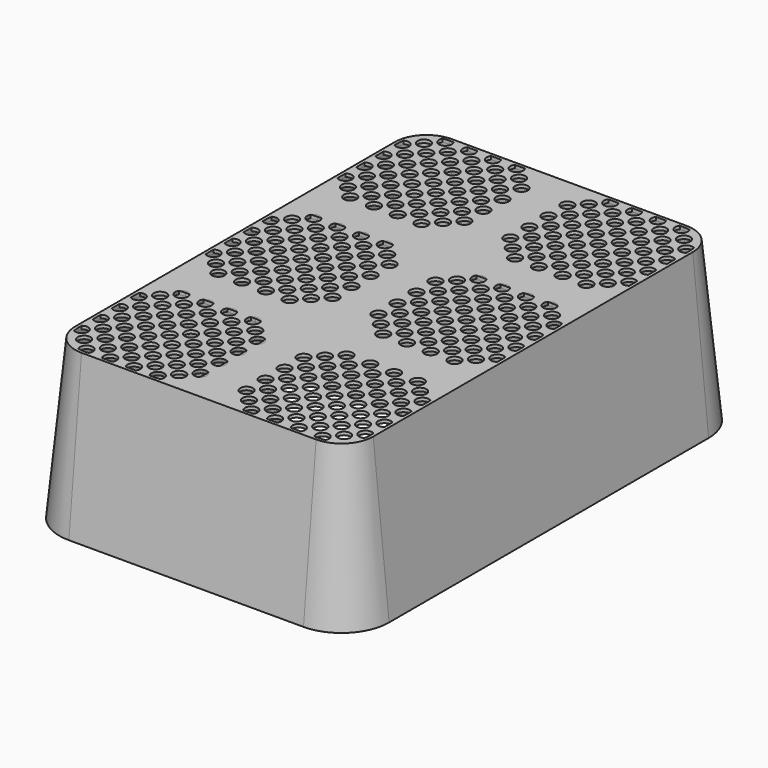
from build123d import *

# Parameters (mm, degrees)
EXTRUDE006_DEPTH = 1
FACE018_R        = 2
EXTRUDE003_DEPTH = 1
FACE017_R        = 2
EXTRUDE002_DEPTH = 1
FACE016_R        = 2
EXTRUDE001_DEPTH = 1
FACE015_R        = 2
EXTRUDE_DEPTH    = 1
FACE020_R        = 2
EXTRUDE005_DEPTH = 1
FACE019_R        = 2
EXTRUDE004_DEPTH = 1
EXTRUDE007_DEPTH = 1
EXTRUDE008_DEPTH = 1


with BuildPart() as extrude006:
    # Sketch021 (on Face4 of Cut) → Extrude006 (new body)
    with BuildSketch(Plane.XY.offset(50)):
        with BuildLine():
            Line((15, 46), (37, 46))
            ThreePointArc((46, 37), (43.363961, 43.363961), (37, 46))
            Line((46, 37), (46, 15))
            ThreePointArc((37, 6), (43.363961, 8.636039), (46, 15))
            Line((37, 6), (15, 6))
            ThreePointArc((6, 15), (8.636039, 8.636039), (15, 6))
            Line((6, 15), (6, 37))
            ThreePointArc((15, 46), (8.636039, 43.363961), (6, 37))
        make_face()
    extrude(amount=EXTRUDE006_DEPTH)


with BuildPart() as extrude006_1:
    # Extrude006 placement: moved
    add(extrude006.part.moved(Location((0, 0, -1))))


with BuildPart() as extrude003:
    # Face018 → Extrude003 (new body)
    with BuildSketch(Plane(origin=(29.75, 14.75, 0), x_dir=(0, 1, 0), z_dir=(0, 0, 1))):
        Circle(FACE018_R)
        with Locations((0, 7.5)):
            Circle(FACE018_R)
        with Locations((0, 15)):
            Circle(FACE018_R)
        with Locations((0, 22.5)):
            Circle(FACE018_R)
        with Locations((26.25, -11.25)):
            Circle(FACE018_R)
        with Locations((18.75, -11.25)):
            Circle(FACE018_R)
        with Locations((11.25, -11.25)):
            Circle(FACE018_R)
        with Locations((3.75, -11.25)):
            Circle(FACE018_R)
        with Locations((-3.75, -11.25)):
            Circle(FACE018_R)
        with Locations((15, -7.5)):
            Circle(FACE018_R)
        with Locations((22.5, -7.5)):
            Circle(FACE018_R)
        with Locations((26.25, -3.75)):
            Circle(FACE018_R)
        with Locations((18.75, -3.75)):
            Circle(FACE018_R)
        with Locations((11.25, -3.75)):
            Circle(FACE018_R)
        with Locations((7.5, -7.5)):
            Circle(FACE018_R)
        with Locations((3.75, -3.75)):
            Circle(FACE018_R)
        with Locations((0, -7.5)):
            Circle(FACE018_R)
        with Locations((-3.75, -3.75)):
            Circle(FACE018_R)
        with Locations((-3.75, 3.75)):
            Circle(FACE018_R)
        with Locations((7.5, 0)):
            Circle(FACE018_R)
        with Locations((15, 0)):
            Circle(FACE018_R)
        with Locations((22.5, 0)):
            Circle(FACE018_R)
        with Locations((18.75, 3.75)):
            Circle(FACE018_R)
        with Locations((11.25, 3.75)):
            Circle(FACE018_R)
        with Locations((3.75, 3.75)):
            Circle(FACE018_R)
        with Locations((15, 7.5)):
            Circle(FACE018_R)
        with Locations((7.5, 7.5)):
            Circle(FACE018_R)
        with Locations((11.25, 11.25)):
            Circle(FACE018_R)
        with Locations((3.75, 11.25)):
            Circle(FACE018_R)
        with Locations((-3.75, 11.25)):
            Circle(FACE018_R)
        with Locations((7.5, 15)):
            Circle(FACE018_R)
        with Locations((15, 15)):
            Circle(FACE018_R)
        with Locations((18.75, 11.25)):
            Circle(FACE018_R)
        with Locations((22.5, 7.5)):
            Circle(FACE018_R)
        with Locations((26.25, 3.75)):
            Circle(FACE018_R)
        with Locations((22.5, 15)):
            Circle(FACE018_R)
        with Locations((26.25, 11.25)):
            Circle(FACE018_R)
        with Locations((26.25, 18.75)):
            Circle(FACE018_R)
        with Locations((18.75, 18.75)):
            Circle(FACE018_R)
        with Locations((11.25, 18.75)):
            Circle(FACE018_R)
        with Locations((3.75, 18.75)):
            Circle(FACE018_R)
        with Locations((15, 22.5)):
            Circle(FACE018_R)
        with Locations((22.5, 22.5)):
            Circle(FACE018_R)
        with Locations((30, 15)):
            Circle(FACE018_R)
        with Locations((30, 7.5)):
            Circle(FACE018_R)
        with Locations((30, 0)):
            Circle(FACE018_R)
        with Locations((30, -7.5)):
            Circle(FACE018_R)
        with Locations((22.5, -15)):
            Circle(FACE018_R)
        with Locations((15, -15)):
            Circle(FACE018_R)
        with Locations((7.5, -15)):
            Circle(FACE018_R)
        with Locations((0, -15)):
            Circle(FACE018_R)
        with Locations((-7.5, -7.5)):
            Circle(FACE018_R)
        with Locations((-7.5, 0)):
            Circle(FACE018_R)
        with Locations((-7.5, 7.5)):
            Circle(FACE018_R)
        with Locations((-7.5, 15)):
            Circle(FACE018_R)
        with Locations((-3.75, 18.75)):
            Circle(FACE018_R)
        with Locations((7.5, 22.5)):
            Circle(FACE018_R)
    extrude(amount=EXTRUDE003_DEPTH)


with BuildPart() as extrude003_1:
    # Extrude003 placement: moved
    add(extrude003.part.moved(Location((52, 52, 49))))


with BuildPart() as fusion001:
    # Face017 → Extrude002 (new body)
    with BuildSketch(Plane(origin=(22.25, 14.75, 0), x_dir=(0, 1, 0), z_dir=(0, 0, 1))):
        Circle(FACE017_R)
        with Locations((0, 15)):
            Circle(FACE017_R)
        with Locations((-7.5, -7.5)):
            Circle(FACE017_R)
        with Locations((-7.5, 7.5)):
            Circle(FACE017_R)
        with Locations((26.25, -18.75)):
            Circle(FACE017_R)
        with Locations((18.75, -18.75)):
            Circle(FACE017_R)
        with Locations((11.25, -18.75)):
            Circle(FACE017_R)
        with Locations((3.75, -18.75)):
            Circle(FACE017_R)
        with Locations((-3.75, -18.75)):
            Circle(FACE017_R)
        with Locations((15, -15)):
            Circle(FACE017_R)
        with Locations((22.5, -15)):
            Circle(FACE017_R)
        with Locations((26.25, -11.25)):
            Circle(FACE017_R)
        with Locations((18.75, -11.25)):
            Circle(FACE017_R)
        with Locations((11.25, -11.25)):
            Circle(FACE017_R)
        with Locations((7.5, -15)):
            Circle(FACE017_R)
        with Locations((3.75, -11.25)):
            Circle(FACE017_R)
        with Locations((0, -15)):
            Circle(FACE017_R)
        with Locations((-3.75, -11.25)):
            Circle(FACE017_R)
        with Locations((-3.75, -3.75)):
            Circle(FACE017_R)
        with Locations((0, -7.5)):
            Circle(FACE017_R)
        with Locations((7.5, -7.5)):
            Circle(FACE017_R)
        with Locations((15, -7.5)):
            Circle(FACE017_R)
        with Locations((22.5, -7.5)):
            Circle(FACE017_R)
        with Locations((18.75, -3.75)):
            Circle(FACE017_R)
        with Locations((11.25, -3.75)):
            Circle(FACE017_R)
        with Locations((3.75, -3.75)):
            Circle(FACE017_R)
        with Locations((15, 0)):
            Circle(FACE017_R)
        with Locations((7.5, 0)):
            Circle(FACE017_R)
        with Locations((11.25, 3.75)):
            Circle(FACE017_R)
        with Locations((3.75, 3.75)):
            Circle(FACE017_R)
        with Locations((-3.75, 3.75)):
            Circle(FACE017_R)
        with Locations((0, 7.5)):
            Circle(FACE017_R)
        with Locations((7.5, 7.5)):
            Circle(FACE017_R)
        with Locations((15, 7.5)):
            Circle(FACE017_R)
        with Locations((18.75, 3.75)):
            Circle(FACE017_R)
        with Locations((22.5, 0)):
            Circle(FACE017_R)
        with Locations((26.25, -3.75)):
            Circle(FACE017_R)
        with Locations((22.5, 7.5)):
            Circle(FACE017_R)
        with Locations((26.25, 3.75)):
            Circle(FACE017_R)
        with Locations((26.25, 11.25)):
            Circle(FACE017_R)
        with Locations((18.75, 11.25)):
            Circle(FACE017_R)
        with Locations((11.25, 11.25)):
            Circle(FACE017_R)
        with Locations((3.75, 11.25)):
            Circle(FACE017_R)
        with Locations((7.5, 15)):
            Circle(FACE017_R)
        with Locations((15, 15)):
            Circle(FACE017_R)
        with Locations((22.5, 15)):
            Circle(FACE017_R)
        with Locations((30, 7.5)):
            Circle(FACE017_R)
        with Locations((30, 0)):
            Circle(FACE017_R)
        with Locations((30, -7.5)):
            Circle(FACE017_R)
        with Locations((30, -15)):
            Circle(FACE017_R)
        with Locations((22.5, -22.5)):
            Circle(FACE017_R)
        with Locations((15, -22.5)):
            Circle(FACE017_R)
        with Locations((7.5, -22.5)):
            Circle(FACE017_R)
        with Locations((0, -22.5)):
            Circle(FACE017_R)
        with Locations((-7.5, -15)):
            Circle(FACE017_R)
        with Locations((-7.5, 0)):
            Circle(FACE017_R)
        with Locations((-3.75, 11.25)):
            Circle(FACE017_R)
    extrude(amount=EXTRUDE002_DEPTH)


with BuildPart() as fusion001_1:
    # Extrude002 placement: moved
    add(fusion001.part.moved(Location((0, 52, 49))))

    # Fusion001: union Extrude003
    add(extrude003_1.part)


with BuildPart() as extrude001:
    # Face016 → Extrude001 (new body)
    with BuildSketch(Plane(origin=(37.25, 14.75, 0), x_dir=(0, 1, 0), z_dir=(0, 0, 1))):
        Circle(FACE016_R)
        with Locations((-7.5, 22.5)):
            Circle(FACE016_R)
        with Locations((26.25, -3.75)):
            Circle(FACE016_R)
        with Locations((18.75, -3.75)):
            Circle(FACE016_R)
        with Locations((11.25, -3.75)):
            Circle(FACE016_R)
        with Locations((3.75, -3.75)):
            Circle(FACE016_R)
        with Locations((-3.75, -3.75)):
            Circle(FACE016_R)
        with Locations((15, 0)):
            Circle(FACE016_R)
        with Locations((22.5, 0)):
            Circle(FACE016_R)
        with Locations((26.25, 3.75)):
            Circle(FACE016_R)
        with Locations((18.75, 3.75)):
            Circle(FACE016_R)
        with Locations((11.25, 3.75)):
            Circle(FACE016_R)
        with Locations((7.5, 0)):
            Circle(FACE016_R)
        with Locations((3.75, 3.75)):
            Circle(FACE016_R)
        with Locations((-3.75, 3.75)):
            Circle(FACE016_R)
        with Locations((-3.75, 11.25)):
            Circle(FACE016_R)
        with Locations((0, 7.5)):
            Circle(FACE016_R)
        with Locations((7.5, 7.5)):
            Circle(FACE016_R)
        with Locations((15, 7.5)):
            Circle(FACE016_R)
        with Locations((22.5, 7.5)):
            Circle(FACE016_R)
        with Locations((18.75, 11.25)):
            Circle(FACE016_R)
        with Locations((11.25, 11.25)):
            Circle(FACE016_R)
        with Locations((3.75, 11.25)):
            Circle(FACE016_R)
        with Locations((15, 15)):
            Circle(FACE016_R)
        with Locations((7.5, 15)):
            Circle(FACE016_R)
        with Locations((11.25, 18.75)):
            Circle(FACE016_R)
        with Locations((3.75, 18.75)):
            Circle(FACE016_R)
        with Locations((-3.75, 18.75)):
            Circle(FACE016_R)
        with Locations((7.5, 22.5)):
            Circle(FACE016_R)
        with Locations((18.75, 18.75)):
            Circle(FACE016_R)
        with Locations((22.5, 15)):
            Circle(FACE016_R)
        with Locations((26.25, 11.25)):
            Circle(FACE016_R)
        with Locations((22.5, 22.5)):
            Circle(FACE016_R)
        with Locations((26.25, 18.75)):
            Circle(FACE016_R)
        with Locations((26.25, 26.25)):
            Circle(FACE016_R)
        with Locations((18.75, 26.25)):
            Circle(FACE016_R)
        with Locations((11.25, 26.25)):
            Circle(FACE016_R)
        with Locations((3.75, 26.25)):
            Circle(FACE016_R)
        with Locations((7.5, 30)):
            Circle(FACE016_R)
        with Locations((15, 30)):
            Circle(FACE016_R)
        with Locations((22.5, 30)):
            Circle(FACE016_R)
        with Locations((30, 22.5)):
            Circle(FACE016_R)
        with Locations((30, 15)):
            Circle(FACE016_R)
        with Locations((30, 7.5)):
            Circle(FACE016_R)
        with Locations((30, 0)):
            Circle(FACE016_R)
        with Locations((22.5, -7.5)):
            Circle(FACE016_R)
        with Locations((15, -7.5)):
            Circle(FACE016_R)
        with Locations((7.5, -7.5)):
            Circle(FACE016_R)
        with Locations((0, -7.5)):
            Circle(FACE016_R)
        with Locations((-7.5, 0)):
            Circle(FACE016_R)
        with Locations((-7.5, 7.5)):
            Circle(FACE016_R)
        with Locations((-7.5, 15)):
            Circle(FACE016_R)
        with Locations((-3.75, 26.25)):
            Circle(FACE016_R)
        with Locations((0, 30)):
            Circle(FACE016_R)
        with Locations((0, 15)):
            Circle(FACE016_R)
        with Locations((0, 22.5)):
            Circle(FACE016_R)
        with Locations((15, 22.5)):
            Circle(FACE016_R)
    extrude(amount=EXTRUDE001_DEPTH)


with BuildPart() as extrude001_1:
    # Extrude001 placement: moved
    add(extrude001.part.moved(Location((52, 0, 49))))


with BuildPart() as fusion003:
    # Face015 → Extrude (new body)
    with BuildSketch(Plane(origin=(22.25, 14.75, 0), x_dir=(0, 1, 0), z_dir=(0, 0, 1))):
        Circle(FACE015_R)
        with Locations((15, 7.5)):
            Circle(FACE015_R)
        with Locations((26.25, -18.75)):
            Circle(FACE015_R)
        with Locations((18.75, -18.75)):
            Circle(FACE015_R)
        with Locations((11.25, -18.75)):
            Circle(FACE015_R)
        with Locations((3.75, -18.75)):
            Circle(FACE015_R)
        with Locations((-3.75, -18.75)):
            Circle(FACE015_R)
        with Locations((15, -15)):
            Circle(FACE015_R)
        with Locations((22.5, -15)):
            Circle(FACE015_R)
        with Locations((26.25, -11.25)):
            Circle(FACE015_R)
        with Locations((18.75, -11.25)):
            Circle(FACE015_R)
        with Locations((11.25, -11.25)):
            Circle(FACE015_R)
        with Locations((7.5, -15)):
            Circle(FACE015_R)
        with Locations((3.75, -11.25)):
            Circle(FACE015_R)
        with Locations((-3.75, -11.25)):
            Circle(FACE015_R)
        with Locations((-3.75, -3.75)):
            Circle(FACE015_R)
        with Locations((0, -7.5)):
            Circle(FACE015_R)
        with Locations((7.5, -7.5)):
            Circle(FACE015_R)
        with Locations((15, -7.5)):
            Circle(FACE015_R)
        with Locations((22.5, -7.5)):
            Circle(FACE015_R)
        with Locations((18.75, -3.75)):
            Circle(FACE015_R)
        with Locations((11.25, -3.75)):
            Circle(FACE015_R)
        with Locations((3.75, -3.75)):
            Circle(FACE015_R)
        with Locations((15, 0)):
            Circle(FACE015_R)
        with Locations((7.5, 0)):
            Circle(FACE015_R)
        with Locations((11.25, 3.75)):
            Circle(FACE015_R)
        with Locations((3.75, 3.75)):
            Circle(FACE015_R)
        with Locations((-3.75, 3.75)):
            Circle(FACE015_R)
        with Locations((0, 7.5)):
            Circle(FACE015_R)
        with Locations((7.5, 7.5)):
            Circle(FACE015_R)
        with Locations((18.75, 3.75)):
            Circle(FACE015_R)
        with Locations((22.5, 0)):
            Circle(FACE015_R)
        with Locations((26.25, -3.75)):
            Circle(FACE015_R)
        with Locations((22.5, 7.5)):
            Circle(FACE015_R)
        with Locations((26.25, 3.75)):
            Circle(FACE015_R)
        with Locations((26.25, 11.25)):
            Circle(FACE015_R)
        with Locations((18.75, 11.25)):
            Circle(FACE015_R)
        with Locations((11.25, 11.25)):
            Circle(FACE015_R)
        with Locations((3.75, 11.25)):
            Circle(FACE015_R)
        with Locations((0, 15)):
            Circle(FACE015_R)
        with Locations((7.5, 15)):
            Circle(FACE015_R)
        with Locations((15, 15)):
            Circle(FACE015_R)
        with Locations((22.5, 15)):
            Circle(FACE015_R)
        with Locations((30, 7.5)):
            Circle(FACE015_R)
        with Locations((30, 0)):
            Circle(FACE015_R)
        with Locations((30, -7.5)):
            Circle(FACE015_R)
        with Locations((30, -15)):
            Circle(FACE015_R)
        with Locations((22.5, -22.5)):
            Circle(FACE015_R)
        with Locations((15, -22.5)):
            Circle(FACE015_R)
        with Locations((7.5, -22.5)):
            Circle(FACE015_R)
        with Locations((0, -22.5)):
            Circle(FACE015_R)
        with Locations((-7.5, -15)):
            Circle(FACE015_R)
        with Locations((-7.5, -7.5)):
            Circle(FACE015_R)
        with Locations((-7.5, 0)):
            Circle(FACE015_R)
        with Locations((-3.75, 11.25)):
            Circle(FACE015_R)
        with Locations((-7.5, 7.5)):
            Circle(FACE015_R)
        with Locations((0, -15)):
            Circle(FACE015_R)
    extrude(amount=EXTRUDE_DEPTH)


with BuildPart() as fusion003_1:
    # Extrude placement: moved
    add(fusion003.part.moved(Location((0, 0, 49))))

    # Fusion: union Extrude001
    add(extrude001_1.part)

    # Fusion003: union Fusion001
    add(fusion001_1.part)


with BuildPart() as extrude005:
    # Face020 → Extrude005 (new body)
    with BuildSketch(Plane(origin=(37.25, 14.75, 0), x_dir=(0, 1, 0), z_dir=(0, 0, 1))):
        Circle(FACE020_R)
        with Locations((0, 15)):
            Circle(FACE020_R)
        with Locations((26.25, -3.75)):
            Circle(FACE020_R)
        with Locations((18.75, -3.75)):
            Circle(FACE020_R)
        with Locations((11.25, -3.75)):
            Circle(FACE020_R)
        with Locations((3.75, -3.75)):
            Circle(FACE020_R)
        with Locations((-3.75, -3.75)):
            Circle(FACE020_R)
        with Locations((15, 0)):
            Circle(FACE020_R)
        with Locations((22.5, 0)):
            Circle(FACE020_R)
        with Locations((26.25, 3.75)):
            Circle(FACE020_R)
        with Locations((18.75, 3.75)):
            Circle(FACE020_R)
        with Locations((11.25, 3.75)):
            Circle(FACE020_R)
        with Locations((7.5, 0)):
            Circle(FACE020_R)
        with Locations((3.75, 3.75)):
            Circle(FACE020_R)
        with Locations((-3.75, 3.75)):
            Circle(FACE020_R)
        with Locations((-3.75, 11.25)):
            Circle(FACE020_R)
        with Locations((0, 7.5)):
            Circle(FACE020_R)
        with Locations((7.5, 7.5)):
            Circle(FACE020_R)
        with Locations((15, 7.5)):
            Circle(FACE020_R)
        with Locations((22.5, 7.5)):
            Circle(FACE020_R)
        with Locations((18.75, 11.25)):
            Circle(FACE020_R)
        with Locations((11.25, 11.25)):
            Circle(FACE020_R)
        with Locations((3.75, 11.25)):
            Circle(FACE020_R)
        with Locations((15, 15)):
            Circle(FACE020_R)
        with Locations((7.5, 15)):
            Circle(FACE020_R)
        with Locations((11.25, 18.75)):
            Circle(FACE020_R)
        with Locations((3.75, 18.75)):
            Circle(FACE020_R)
        with Locations((-3.75, 18.75)):
            Circle(FACE020_R)
        with Locations((0, 22.5)):
            Circle(FACE020_R)
        with Locations((7.5, 22.5)):
            Circle(FACE020_R)
        with Locations((15, 22.5)):
            Circle(FACE020_R)
        with Locations((18.75, 18.75)):
            Circle(FACE020_R)
        with Locations((22.5, 15)):
            Circle(FACE020_R)
        with Locations((26.25, 11.25)):
            Circle(FACE020_R)
        with Locations((22.5, 22.5)):
            Circle(FACE020_R)
        with Locations((26.25, 18.75)):
            Circle(FACE020_R)
        with Locations((26.25, 26.25)):
            Circle(FACE020_R)
        with Locations((18.75, 26.25)):
            Circle(FACE020_R)
        with Locations((11.25, 26.25)):
            Circle(FACE020_R)
        with Locations((3.75, 26.25)):
            Circle(FACE020_R)
        with Locations((0, 30)):
            Circle(FACE020_R)
        with Locations((7.5, 30)):
            Circle(FACE020_R)
        with Locations((15, 30)):
            Circle(FACE020_R)
        with Locations((22.5, 30)):
            Circle(FACE020_R)
        with Locations((30, 22.5)):
            Circle(FACE020_R)
        with Locations((30, 15)):
            Circle(FACE020_R)
        with Locations((30, 7.5)):
            Circle(FACE020_R)
        with Locations((30, 0)):
            Circle(FACE020_R)
        with Locations((22.5, -7.5)):
            Circle(FACE020_R)
        with Locations((15, -7.5)):
            Circle(FACE020_R)
        with Locations((7.5, -7.5)):
            Circle(FACE020_R)
        with Locations((0, -7.5)):
            Circle(FACE020_R)
        with Locations((-7.5, 0)):
            Circle(FACE020_R)
        with Locations((-7.5, 15)):
            Circle(FACE020_R)
        with Locations((-3.75, 26.25)):
            Circle(FACE020_R)
        with Locations((-7.5, 7.5)):
            Circle(FACE020_R)
        with Locations((-7.5, 22.5)):
            Circle(FACE020_R)
    extrude(amount=EXTRUDE005_DEPTH)


with BuildPart() as extrude005_1:
    # Extrude005 placement: moved
    add(extrude005.part.moved(Location((52, 104, 49))))


with BuildPart() as fusion004:
    # Face019 → Extrude004 (new body)
    with BuildSketch(Plane(origin=(22.25, 14.75, 0), x_dir=(0, 1, 0), z_dir=(0, 0, 1))):
        Circle(FACE019_R)
        with Locations((15, 7.5)):
            Circle(FACE019_R)
        with Locations((26.25, -18.75)):
            Circle(FACE019_R)
        with Locations((18.75, -18.75)):
            Circle(FACE019_R)
        with Locations((11.25, -18.75)):
            Circle(FACE019_R)
        with Locations((3.75, -18.75)):
            Circle(FACE019_R)
        with Locations((-3.75, -18.75)):
            Circle(FACE019_R)
        with Locations((15, -15)):
            Circle(FACE019_R)
        with Locations((22.5, -15)):
            Circle(FACE019_R)
        with Locations((26.25, -11.25)):
            Circle(FACE019_R)
        with Locations((18.75, -11.25)):
            Circle(FACE019_R)
        with Locations((11.25, -11.25)):
            Circle(FACE019_R)
        with Locations((7.5, -15)):
            Circle(FACE019_R)
        with Locations((3.75, -11.25)):
            Circle(FACE019_R)
        with Locations((0, -15)):
            Circle(FACE019_R)
        with Locations((-3.75, -11.25)):
            Circle(FACE019_R)
        with Locations((-3.75, -3.75)):
            Circle(FACE019_R)
        with Locations((7.5, -7.5)):
            Circle(FACE019_R)
        with Locations((15, -7.5)):
            Circle(FACE019_R)
        with Locations((22.5, -7.5)):
            Circle(FACE019_R)
        with Locations((18.75, -3.75)):
            Circle(FACE019_R)
        with Locations((11.25, -3.75)):
            Circle(FACE019_R)
        with Locations((3.75, -3.75)):
            Circle(FACE019_R)
        with Locations((15, 0)):
            Circle(FACE019_R)
        with Locations((7.5, 0)):
            Circle(FACE019_R)
        with Locations((11.25, 3.75)):
            Circle(FACE019_R)
        with Locations((3.75, 3.75)):
            Circle(FACE019_R)
        with Locations((-3.75, 3.75)):
            Circle(FACE019_R)
        with Locations((0, 7.5)):
            Circle(FACE019_R)
        with Locations((18.75, 3.75)):
            Circle(FACE019_R)
        with Locations((22.5, 0)):
            Circle(FACE019_R)
        with Locations((26.25, -3.75)):
            Circle(FACE019_R)
        with Locations((26.25, 3.75)):
            Circle(FACE019_R)
        with Locations((26.25, 11.25)):
            Circle(FACE019_R)
        with Locations((18.75, 11.25)):
            Circle(FACE019_R)
        with Locations((11.25, 11.25)):
            Circle(FACE019_R)
        with Locations((3.75, 11.25)):
            Circle(FACE019_R)
        with Locations((0, 15)):
            Circle(FACE019_R)
        with Locations((7.5, 15)):
            Circle(FACE019_R)
        with Locations((15, 15)):
            Circle(FACE019_R)
        with Locations((22.5, 15)):
            Circle(FACE019_R)
        with Locations((30, 7.5)):
            Circle(FACE019_R)
        with Locations((30, 0)):
            Circle(FACE019_R)
        with Locations((30, -7.5)):
            Circle(FACE019_R)
        with Locations((30, -15)):
            Circle(FACE019_R)
        with Locations((22.5, -22.5)):
            Circle(FACE019_R)
        with Locations((15, -22.5)):
            Circle(FACE019_R)
        with Locations((7.5, -22.5)):
            Circle(FACE019_R)
        with Locations((0, -22.5)):
            Circle(FACE019_R)
        with Locations((-7.5, -15)):
            Circle(FACE019_R)
        with Locations((-7.5, -7.5)):
            Circle(FACE019_R)
        with Locations((-7.5, 0)):
            Circle(FACE019_R)
        with Locations((-3.75, 11.25)):
            Circle(FACE019_R)
        with Locations((0, -7.5)):
            Circle(FACE019_R)
        with Locations((7.5, 7.5)):
            Circle(FACE019_R)
        with Locations((22.5, 7.5)):
            Circle(FACE019_R)
        with Locations((-7.5, 7.5)):
            Circle(FACE019_R)
    extrude(amount=EXTRUDE004_DEPTH)


with BuildPart() as fusion004_1:
    # Extrude004 placement: moved
    add(fusion004.part.moved(Location((0, 104, 49))))

    # Fusion002: union Extrude005
    add(extrude005_1.part)

    # Fusion004: union Fusion003
    add(fusion003_1.part)


with BuildPart() as common:
    # Common base: copy of Fusion004
    add(fusion004_1.part)

    # Common: intersect Extrude006
    add(extrude006_1.part, mode=Mode.INTERSECT)


with BuildPart() as loft001:
    # Face003 → Loft001 section 0
    with BuildSketch(Plane(origin=(26, 26, 0), x_dir=(0, 1, 0), z_dir=(0, 0, 1))):
        with BuildLine():
            Line((11, 25), (-11, 25))
            ThreePointArc((-11, 25), (-20.899495, 20.899495), (-25, 11))
            Line((-25, 11), (-25, -11))
            ThreePointArc((-25, -11), (-20.899495, -20.899495), (-11, -25))
            Line((-11, -25), (11, -25))
            ThreePointArc((11, -25), (20.899495, -20.899495), (25, -11))
            Line((25, -11), (25, 11))
            ThreePointArc((25, 11), (20.899495, 20.899495), (11, 25))
        make_face()
    # Face004 → Loft001 section 1
    with BuildSketch(Plane(origin=(26, 26, 49), x_dir=(0, 1, 0), z_dir=(0, 0, 1))):
        with BuildLine():
            Line((11, 20), (-11, 20))
            ThreePointArc((-11, 20), (-17.363961, 17.363961), (-20, 11))
            Line((-20, 11), (-20, -11))
            ThreePointArc((-20, -11), (-17.363961, -17.363961), (-11, -20))
            Line((-11, -20), (11, -20))
            ThreePointArc((11, -20), (17.363961, -17.363961), (20, -11))
            Line((20, -11), (20, 11))
            ThreePointArc((20, 11), (17.363961, 17.363961), (11, 20))
        make_face()
    loft()


with BuildPart() as pot_1x1:
    # Face001 → Loft section 0
    with BuildSketch(Plane(origin=(26, 26, 0), x_dir=(0, 1, 0), z_dir=(0, 0, 1))):
        with BuildLine():
            Line((-26, 11), (-26, -11))
            ThreePointArc((-26, -11), (-21.606602, -21.606602), (-11, -26))
            Line((-11, -26), (11, -26))
            ThreePointArc((11, -26), (21.606602, -21.606602), (26, -11))
            Line((26, -11), (26, 11))
            ThreePointArc((26, 11), (21.606602, 21.606602), (11, 26))
            Line((11, 26), (-11, 26))
            ThreePointArc((-11, 26), (-21.606602, 21.606602), (-26, 11))
        make_face()
    # Face002 → Loft section 1
    with BuildSketch(Plane(origin=(26, 26, 50), x_dir=(0, 1, 0), z_dir=(0, 0, 1))):
        with BuildLine():
            Line((11, 21), (-11, 21))
            ThreePointArc((-11, 21), (-18.071068, 18.071068), (-21, 11))
            Line((-21, 11), (-21, -11))
            ThreePointArc((-21, -11), (-18.071068, -18.071068), (-11, -21))
            Line((-11, -21), (11, -21))
            ThreePointArc((11, -21), (18.071068, -18.071068), (21, -11))
            Line((21, -11), (21, 11))
            ThreePointArc((21, 11), (18.071068, 18.071068), (11, 21))
        make_face()
    loft()

    # Cut: cut Loft001
    add(loft001.part, mode=Mode.SUBTRACT)

    # Cut003: cut Common
    add(common.part, mode=Mode.SUBTRACT)


with BuildPart() as extrude007:
    # Face022 → Extrude007 (new body)
    with BuildSketch(Plane(origin=(52, 52, 50), x_dir=(0, 1, 0), z_dir=(0, 0, 1))):
        with BuildLine():
            Line((-46, 37), (-46, -37))
            ThreePointArc((-46, -37), (-43.363961, -43.363961), (-37, -46))
            Line((-37, -46), (37, -46))
            ThreePointArc((37, -46), (43.363961, -43.363961), (46, -37))
            Line((46, -37), (46, 37))
            ThreePointArc((46, 37), (43.363961, 43.363961), (37, 46))
            Line((37, 46), (-37, 46))
            ThreePointArc((-37, 46), (-43.363961, 43.363961), (-46, 37))
        make_face()
    extrude(amount=-EXTRUDE007_DEPTH)


with BuildPart() as common001:
    # Common001 base: copy of Fusion004
    add(fusion004_1.part)

    # Common001: intersect Extrude007
    add(extrude007.part, mode=Mode.INTERSECT)


with BuildPart() as loft003:
    # Face008 → Loft003 section 0
    with BuildSketch(Plane(origin=(52, 52, 0), x_dir=(0, 1, 0), z_dir=(0, 0, 1))):
        with BuildLine():
            Line((37, 51), (-37, 51))
            ThreePointArc((-37, 51), (-46.899495, 46.899495), (-51, 37))
            Line((-51, 37), (-51, -37))
            ThreePointArc((-51, -37), (-46.899495, -46.899495), (-37, -51))
            Line((-37, -51), (37, -51))
            ThreePointArc((37, -51), (46.899495, -46.899495), (51, -37))
            Line((51, -37), (51, 37))
            ThreePointArc((51, 37), (46.899495, 46.899495), (37, 51))
        make_face()
    # Face009 → Loft003 section 1
    with BuildSketch(Plane(origin=(52, 52, 49), x_dir=(0, 1, 0), z_dir=(0, 0, 1))):
        with BuildLine():
            Line((37, 46), (-37, 46))
            ThreePointArc((-37, 46), (-43.363961, 43.363961), (-46, 37))
            Line((-46, 37), (-46, -37))
            ThreePointArc((-46, -37), (-43.363961, -43.363961), (-37, -46))
            Line((-37, -46), (37, -46))
            ThreePointArc((37, -46), (43.363961, -43.363961), (46, -37))
            Line((46, -37), (46, 37))
            ThreePointArc((46, 37), (43.363961, 43.363961), (37, 46))
        make_face()
    loft()


with BuildPart() as pot_2x2:
    # Face006 → Loft002 section 0
    with BuildSketch(Plane(origin=(52, 52, 0), x_dir=(0, 1, 0), z_dir=(0, 0, 1))):
        with BuildLine():
            Line((-52, 37), (-52, -37))
            ThreePointArc((-52, -37), (-47.606602, -47.606602), (-37, -52))
            Line((-37, -52), (37, -52))
            ThreePointArc((37, -52), (47.606602, -47.606602), (52, -37))
            Line((52, -37), (52, 37))
            ThreePointArc((52, 37), (47.606602, 47.606602), (37, 52))
            Line((37, 52), (-37, 52))
            ThreePointArc((-37, 52), (-47.606602, 47.606602), (-52, 37))
        make_face()
    # Face007 → Loft002 section 1
    with BuildSketch(Plane(origin=(52, 52, 50), x_dir=(0, 1, 0), z_dir=(0, 0, 1))):
        with BuildLine():
            Line((37, 47), (-37, 47))
            ThreePointArc((-37, 47), (-44.071068, 44.071068), (-47, 37))
            Line((-47, 37), (-47, -37))
            ThreePointArc((-47, -37), (-44.071068, -44.071068), (-37, -47))
            Line((-37, -47), (37, -47))
            ThreePointArc((37, -47), (44.071068, -44.071068), (47, -37))
            Line((47, -37), (47, 37))
            ThreePointArc((47, 37), (44.071068, 44.071068), (37, 47))
        make_face()
    loft()

    # Cut001: cut Loft003
    add(loft003.part, mode=Mode.SUBTRACT)

    # Cut004: cut Common001
    add(common001.part, mode=Mode.SUBTRACT)


with BuildPart() as extrude008:
    # Sketch023 (on Face4 of Cut002) → Extrude008 (new body)
    with BuildSketch(Plane.XY.offset(50)):
        with BuildLine():
            Line((15, 6), (89, 6))
            ThreePointArc((89, 6), (95.363961, 8.636039), (98, 15))
            Line((98, 15), (98, 141))
            ThreePointArc((98, 141), (95.363961, 147.363961), (89, 150))
            Line((89, 150), (15, 150))
            ThreePointArc((15, 150), (8.636039, 147.363961), (6, 141))
            Line((6, 141), (6, 15))
            ThreePointArc((6, 15), (8.636039, 8.636039), (15, 6))
        make_face()
    extrude(amount=-EXTRUDE008_DEPTH)


with BuildPart() as common002:
    # Common002 base: copy of Fusion004
    add(fusion004_1.part)

    # Common002: intersect Extrude008
    add(extrude008.part, mode=Mode.INTERSECT)


with BuildPart() as loft005:
    # Face013 → Loft005 section 0
    with BuildSketch(Plane(origin=(52, 78, 0), x_dir=(0, 1, 0), z_dir=(0, 0, 1))):
        with BuildLine():
            Line((63, 51), (-63, 51))
            ThreePointArc((-63, 51), (-72.899495, 46.899495), (-77, 37))
            Line((-77, 37), (-77, -37))
            ThreePointArc((-77, -37), (-72.899495, -46.899495), (-63, -51))
            Line((-63, -51), (63, -51))
            ThreePointArc((63, -51), (72.899495, -46.899495), (77, -37))
            Line((77, -37), (77, 37))
            ThreePointArc((77, 37), (72.899495, 46.899495), (63, 51))
        make_face()
    # Face014 → Loft005 section 1
    with BuildSketch(Plane(origin=(52, 78, 49), x_dir=(0, 1, 0), z_dir=(0, 0, 1))):
        with BuildLine():
            Line((63, 46), (-63, 46))
            ThreePointArc((-63, 46), (-69.363961, 43.363961), (-72, 37))
            Line((-72, 37), (-72, -37))
            ThreePointArc((-72, -37), (-69.363961, -43.363961), (-63, -46))
            Line((-63, -46), (63, -46))
            ThreePointArc((63, -46), (69.363961, -43.363961), (72, -37))
            Line((72, -37), (72, 37))
            ThreePointArc((72, 37), (69.363961, 43.363961), (63, 46))
        make_face()
    loft()


with BuildPart() as pot_2x3:
    # Face011 → Loft004 section 0
    with BuildSketch(Plane(origin=(52, 78, 0), x_dir=(0, 1, 0), z_dir=(0, 0, 1))):
        with BuildLine():
            Line((-78, 37), (-78, -37))
            ThreePointArc((-78, -37), (-73.606602, -47.606602), (-63, -52))
            Line((-63, -52), (63, -52))
            ThreePointArc((63, -52), (73.606602, -47.606602), (78, -37))
            Line((78, -37), (78, 37))
            ThreePointArc((78, 37), (73.606602, 47.606602), (63, 52))
            Line((63, 52), (-63, 52))
            ThreePointArc((-63, 52), (-73.606602, 47.606602), (-78, 37))
        make_face()
    # Face012 → Loft004 section 1
    with BuildSketch(Plane(origin=(52, 78, 50), x_dir=(0, 1, 0), z_dir=(0, 0, 1))):
        with BuildLine():
            Line((63, 47), (-63, 47))
            ThreePointArc((-63, 47), (-70.071068, 44.071068), (-73, 37))
            Line((-73, 37), (-73, -37))
            ThreePointArc((-73, -37), (-70.071068, -44.071068), (-63, -47))
            Line((-63, -47), (63, -47))
            ThreePointArc((63, -47), (70.071068, -44.071068), (73, -37))
            Line((73, -37), (73, 37))
            ThreePointArc((73, 37), (70.071068, 44.071068), (63, 47))
        make_face()
    loft()

    # Cut002: cut Loft005
    add(loft005.part, mode=Mode.SUBTRACT)

    # Cut005: cut Common002
    add(common002.part, mode=Mode.SUBTRACT)


solid = Compound([pot_1x1.part, pot_2x2.part, pot_2x3.part])
